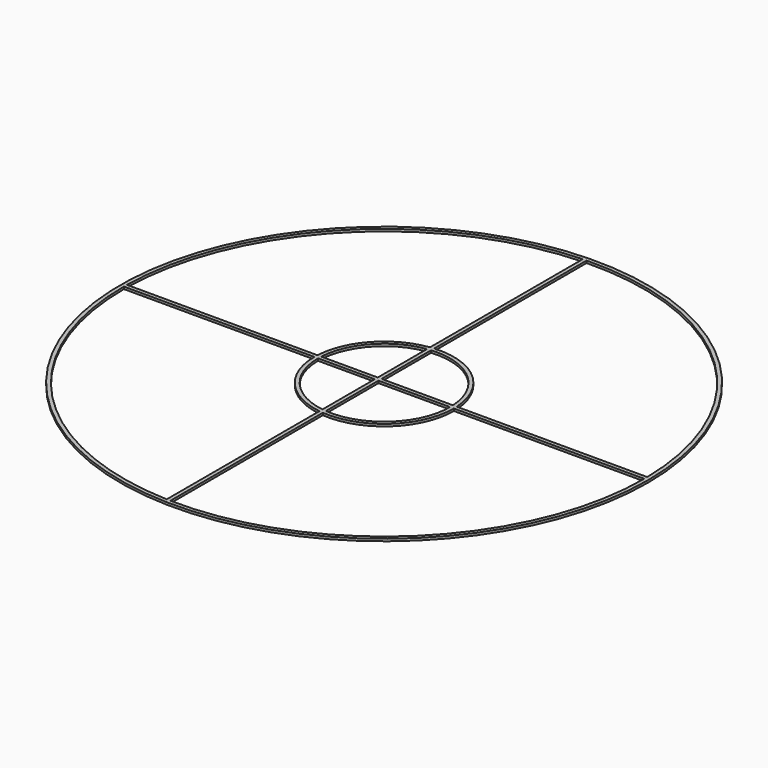
from build123d import *

# Parameters (mm, degrees)
F0_R     = 70
F1_DEPTH = 0.6


with BuildPart() as f1:
    # F0 (on Top) → F1 (new body)
    with BuildSketch(Plane.XY):
        with Locations((0.124242, -0.496998)):
            Circle(F0_R)
        with BuildLine():
            ThreePointArc((-2.352914, -69.452517), (-49.534211, -48.403554), (-68.875758, -0.496998))
            Line((-68.875758, -0.496998), (-18.375758, -0.496998))
            ThreePointArc((-18.375758, -0.496998), (-13.805536, -12.671204), (-2.352914, -18.830401))
            Line((-2.352914, -18.830401), (-2.352914, -69.452517))
        make_face(mode=Mode.SUBTRACT)
        with BuildLine():
            ThreePointArc((-2.352914, -17.820788), (-13.096958, -11.962157), (-17.375758, -0.496998))
            Line((-17.375758, -0.496998), (-2.352914, -0.496998))
            Line((-2.352914, -0.496998), (-2.352914, -17.820788))
        make_face(mode=Mode.SUBTRACT)
        with BuildLine():
            ThreePointArc((69.124242, -0.496998), (48.389531, -49.806853), (-1.352914, -69.481184))
            Line((-1.352914, -69.481184), (-1.352914, -18.937931))
            ThreePointArc((-1.352914, -18.937931), (12.6726, -14.090698), (18.624242, -0.496998))
            Line((18.624242, -0.496998), (69.124242, -0.496998))
        make_face(mode=Mode.SUBTRACT)
        with BuildLine():
            Line((-1.352914, -17.934544), (-1.352914, -0.496998))
            Line((-1.352914, -0.496998), (17.624242, -0.496998))
            ThreePointArc((17.624242, -0.496998), (11.964845, -13.383041), (-1.352914, -17.934544))
        make_face(mode=Mode.SUBTRACT)
        with BuildLine():
            ThreePointArc((-68.868512, 0.503002), (-49.185749, 47.768154), (-2.352914, 68.458522))
            Line((-2.352914, 68.458522), (-2.352914, 17.836406))
            ThreePointArc((-2.352914, 17.836406), (-13.47129, 12.049377), (-18.348712, 0.503002))
            Line((-18.348712, 0.503002), (-68.868512, 0.503002))
        make_face(mode=Mode.SUBTRACT)
        with BuildLine():
            Line((-2.352914, 16.826792), (-2.352914, 0.503002))
            Line((-2.352914, 0.503002), (-17.347164, 0.503002))
            ThreePointArc((-17.347164, 0.503002), (-12.763846, 11.34138), (-2.352914, 16.826792))
        make_face(mode=Mode.SUBTRACT)
        with BuildLine():
            Line((17.595647, 0.503002), (-1.352914, 0.503002))
            Line((-1.352914, 0.503002), (-1.352914, 16.940548))
            ThreePointArc((-1.352914, 16.940548), (11.591684, 12.722222), (17.595647, 0.503002))
        make_face(mode=Mode.SUBTRACT)
        with BuildLine():
            ThreePointArc((-1.352914, 68.487189), (48.030936, 49.161321), (69.116995, 0.503002))
            Line((69.116995, 0.503002), (18.597195, 0.503002))
            ThreePointArc((18.597195, 0.503002), (12.300481, 13.431002), (-1.352914, 17.943935))
            Line((-1.352914, 17.943935), (-1.352914, 68.487189))
        make_face(mode=Mode.SUBTRACT)
    extrude(amount=F1_DEPTH)


solid = f1.part
